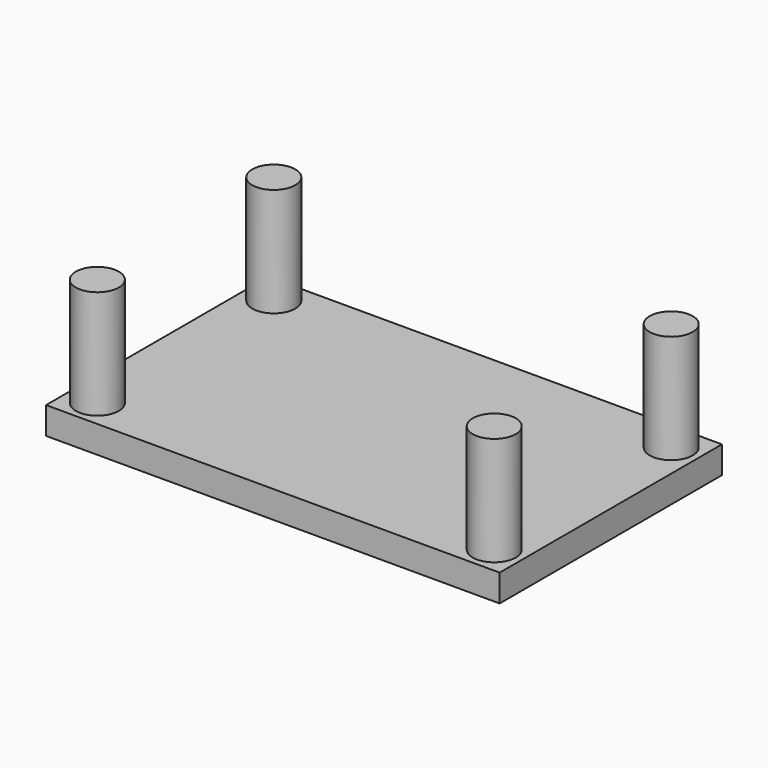
from build123d import *

# Parameters (mm, degrees)
F0_W     = 127.219696
F0_H     = 77.92443
F1_DEPTH = 7.62
F2_R     = 6.034431
F3_DEPTH = 38.1


with BuildPart() as f1:
    # F0 (on Top) → F1 (new body)
    with BuildSketch(Plane.XY):
        with Locations((8.437073, -9.764254)):
            Rectangle(F0_W, F0_H)
    extrude(amount=F1_DEPTH)

    # F2 (on Top) → F3 (join)
    with BuildSketch(Plane.XY):
        with Locations((-47.020096, -40.952984)):
            Circle(F2_R)
        with Locations((-47.155522, 21.089828)):
            Circle(F2_R)
        with Locations((64.309441, -40.952984)):
            Circle(F2_R)
        with Locations((64.309441, 21.089828)):
            Circle(F2_R)
    extrude(amount=F3_DEPTH)


solid = f1.part
